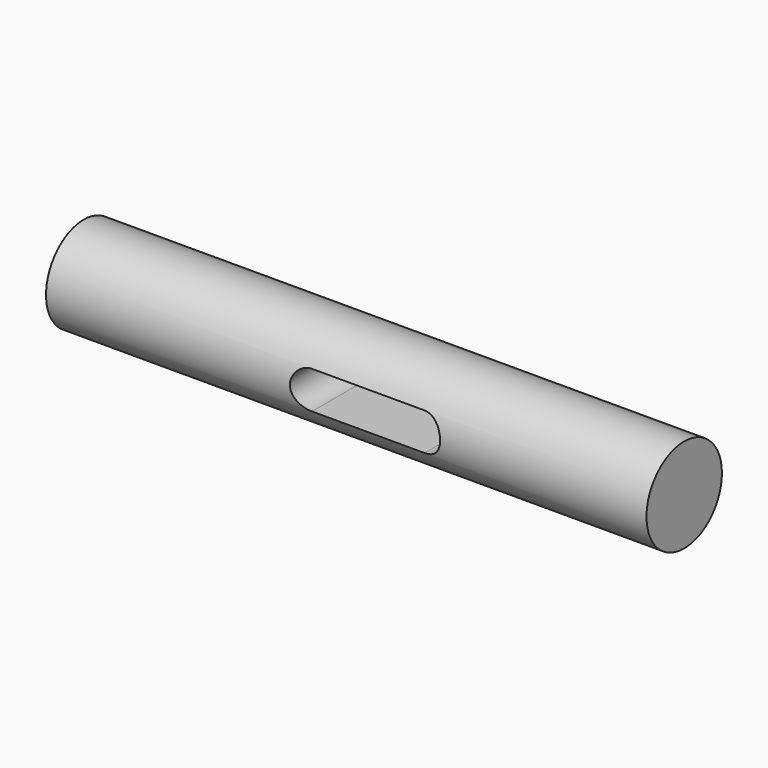
from build123d import *

# Parameters (mm, degrees)
F0_R     = 15.9512
F1_DEPTH = 203.2
F3_DEPTH = 31.9024


with BuildPart() as f1:
    # F0 (on Right) → F1 (new body)
    with BuildSketch(Plane.YZ):
        with Locations((15.9512, 0)):
            Circle(F0_R)
    extrude(amount=F1_DEPTH)

    # F2 (on Front) → F3 (cut)
    with BuildSketch(Plane.XZ):
        with BuildLine():
            Line((127, 6.35), (88.9, 6.35))
            ThreePointArc((88.9, 6.35), (82.55, 0), (88.9, -6.35))
            Line((88.9, -6.35), (127, -6.35))
            ThreePointArc((127, -6.35), (133.35, 0), (127, 6.35))
        make_face()
    extrude(amount=-F3_DEPTH, mode=Mode.SUBTRACT)


solid = f1.part
